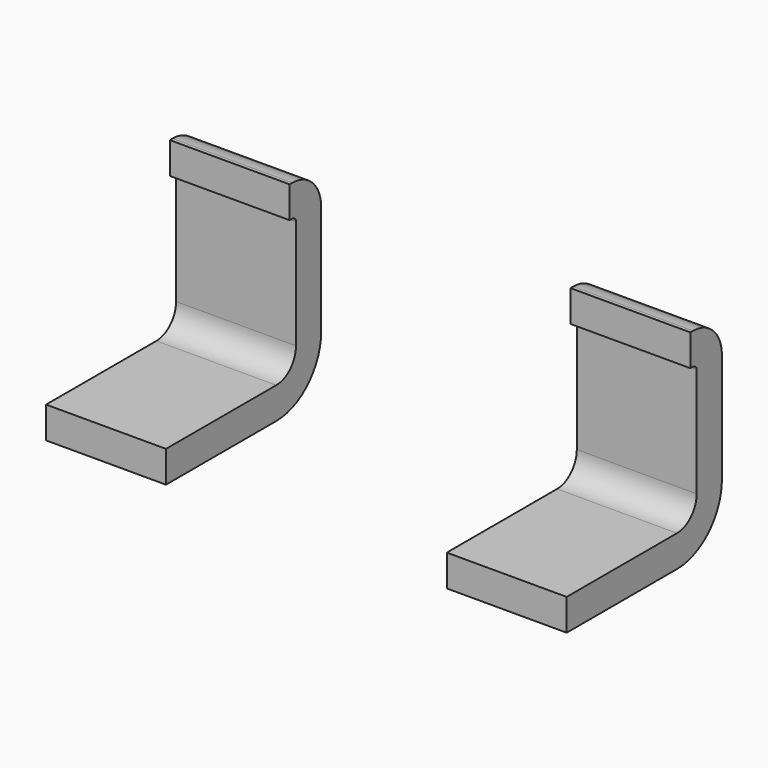
from build123d import *

# Parameters (mm, degrees)
PAD006_DEPTH      = 0.38
PAD006_DEPTH_BACK = 0.38
ARRAY_X_COUNT     = 2
ARRAY_X_PITCH     = 2.54


with BuildPart() as array:
    # Sketch011 → Pad006 (new body, two sides)
    with BuildSketch(Plane.YZ) as pad006_sk:
        with BuildLine():
            Line((-1.27, 0.2), (-1.27, 0))
            Line((-1.27, 0), (-2.144, 0))
            ThreePointArc((-2.5, 0.356), (-2.39573, 0.10427), (-2.144, 0))
            Line((-2.5, 0.356), (-2.5, 1.049))
            ThreePointArc((-2.2714, 1.2776), (-2.433045, 1.210645), (-2.5, 1.049))
            Line((-2.2714, 1.2776), (-2.25, 1.2776))
            Line((-2.25, 1.2776), (-2.25, 1.0776))
            Line((-2.25, 1.0776), (-2.2714, 1.0776))
            ThreePointArc((-2.2714, 1.0776), (-2.291623, 1.069223), (-2.3, 1.049))
            Line((-2.3, 1.049), (-2.3, 0.356))
            ThreePointArc((-2.3, 0.356), (-2.254309, 0.245691), (-2.144, 0.2))
            Line((-2.144, 0.2), (-1.27, 0.2))
        make_face()
    extrude(amount=PAD006_DEPTH)
    extrude(pad006_sk.sketch, amount=-PAD006_DEPTH_BACK)

    # Array X: Array ×2


with BuildPart() as array_1:
    add(array.part)
    with Locations(*[(i * ARRAY_X_PITCH, 0, 0) for i in range(1, ARRAY_X_COUNT)]):
        add(array.part)


with BuildPart() as array_2:
    # Array placement: moved
    add(array_1.part.moved(Location((-1.27, 0, 0))))


with BuildPart() as part_mirroring:
    # Part__Mirroring: instance of Array
    add(array_2.part.mirror(Plane(origin=(0, 0, 0), x_dir=(1, 0, 0), z_dir=(0, 1, 0))))


solid = part_mirroring.part
